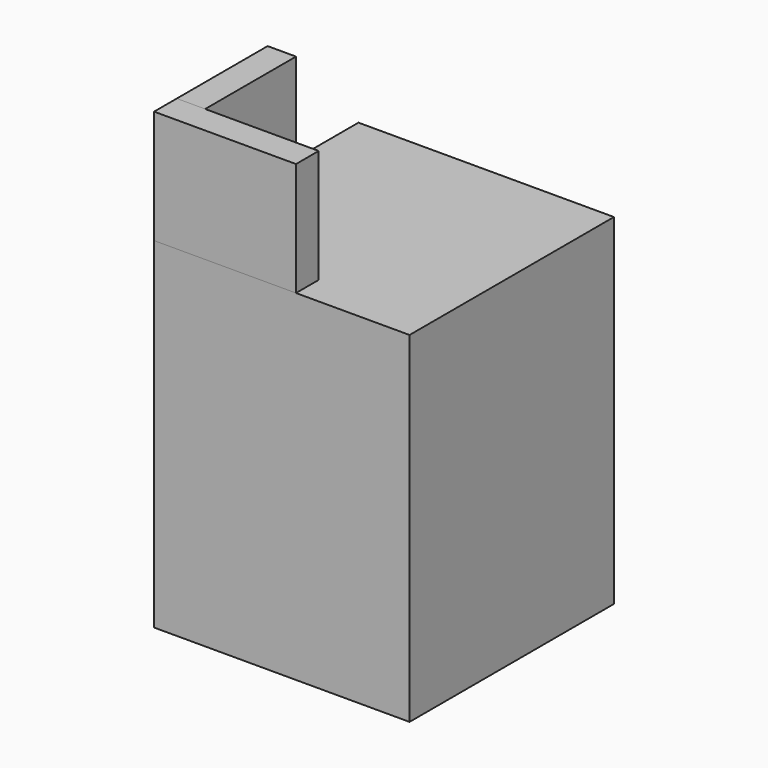
from build123d import *

# Parameters (mm, degrees)
BOX_W        = 45
BOX_H        = 45
BOX_DEPTH    = 60
BOX001_W     = 25
BOX001_H     = 5
BOX001_DEPTH = 20
BOX002_W     = 20
BOX002_H     = 5
BOX002_DEPTH = 20


with BuildPart() as base:
    # Box → Box (new body)
    with BuildSketch(Plane.XY):
        with Locations((22.5, 22.5)):
            Rectangle(BOX_W, BOX_H)
    extrude(amount=BOX_DEPTH)


with BuildPart() as side1:
    # Box001 → Box001 (new body)
    with BuildSketch(Plane.XY.offset(60)):
        with Locations((12.5, 2.5)):
            Rectangle(BOX001_W, BOX001_H)
    extrude(amount=BOX001_DEPTH)


with BuildPart() as side2:
    # Box002 → Box002 (new body)
    with BuildSketch(Plane(origin=(5, 5, 60), x_dir=(0, 1, 0), z_dir=(0, 0, 1))):
        with Locations((10, 2.5)):
            Rectangle(BOX002_W, BOX002_H)
    extrude(amount=BOX002_DEPTH)


solid = Compound([base.part, side1.part, side2.part])
